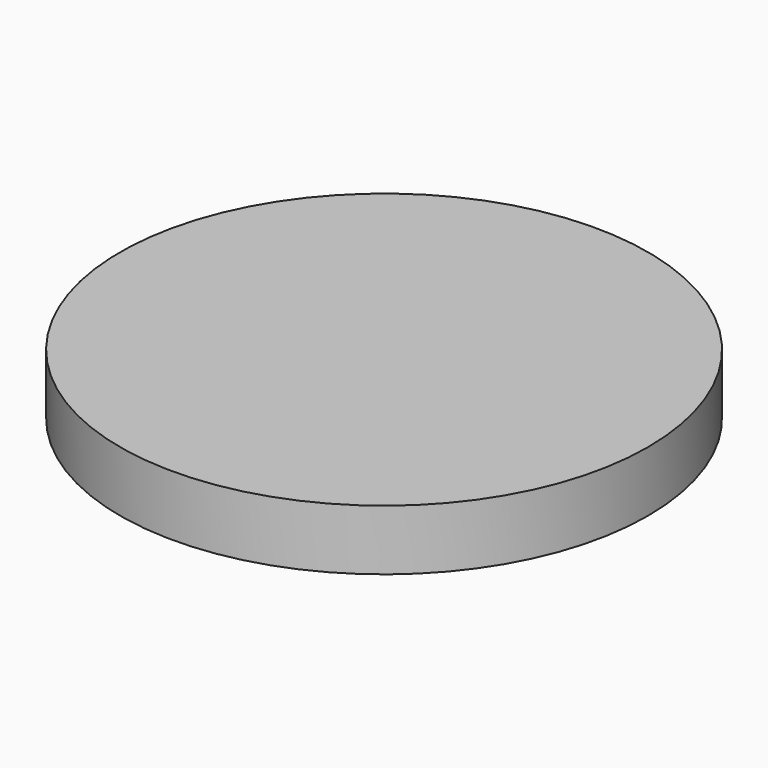
from build123d import *

# Parameters (mm, degrees)
CYLINDER_R     = 34.925
CYLINDER_DEPTH = 8


with BuildPart() as part:
    # Cylinder → Cylinder (new body)
    with BuildSketch(Plane.XY):
        Circle(CYLINDER_R)
    extrude(amount=CYLINDER_DEPTH)


solid = part.part
